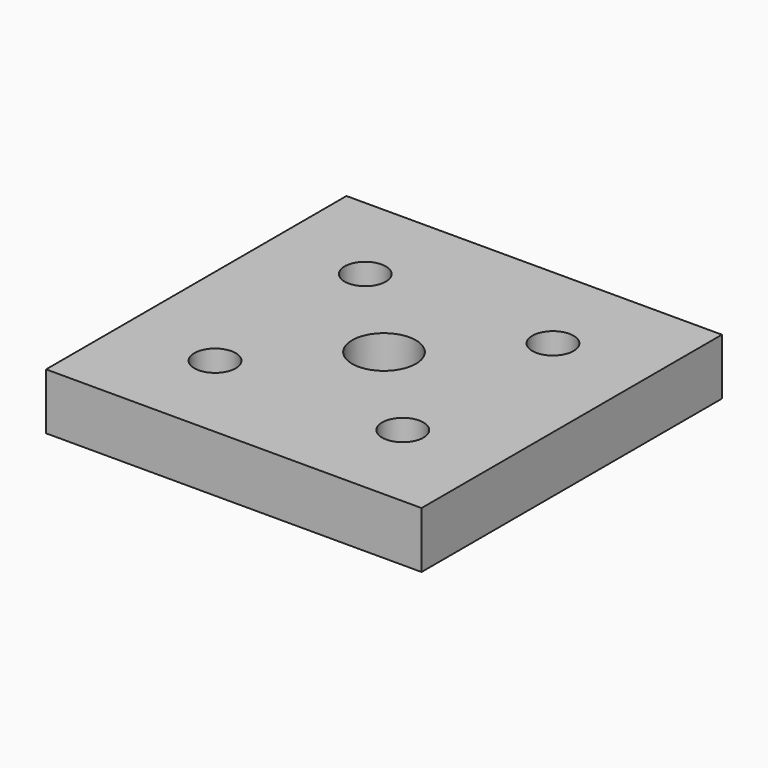
from build123d import *

# Parameters (mm, degrees)
F0_W     = 50.8
F0_H     = 50.8
F0_R     = 2.794
F0_R_2   = 4.318
F1_DEPTH = 7.62


with BuildPart() as f1:
    # F0 (on Top) → F1 (new body)
    with BuildSketch(Plane.XY):
        Rectangle(F0_W, F0_H)
        with Locations((-12.7, -12.7)):
            Circle(F0_R, mode=Mode.SUBTRACT)
        Circle(F0_R_2, mode=Mode.SUBTRACT)
        with Locations((12.7, -12.7)):
            Circle(F0_R, mode=Mode.SUBTRACT)
        with Locations((-12.7, 12.7)):
            Circle(F0_R, mode=Mode.SUBTRACT)
        with Locations((12.7, 12.7)):
            Circle(F0_R, mode=Mode.SUBTRACT)
    extrude(amount=F1_DEPTH)


solid = f1.part
